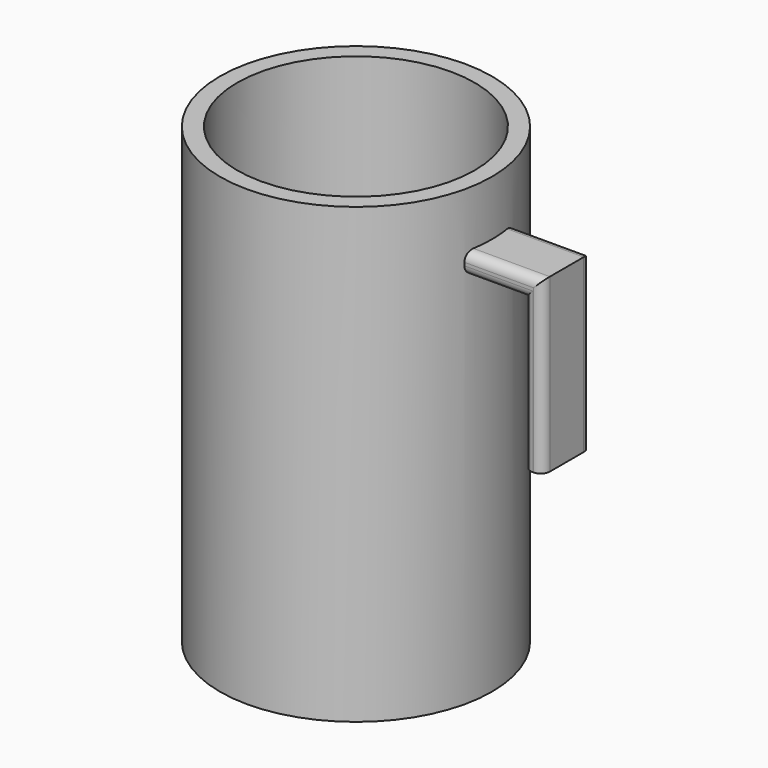
from build123d import *

# Parameters (mm, degrees)
F2_DEPTH = 20
F3_R     = 3


with BuildPart() as f1:
    # F0 (on Front) → F1 (revolve)
    with BuildSketch(Plane.XZ):
        Polygon((45, 75), (39.286416, 75), (39.286416, -65), (0, -65), (0, -75), (45, -75), (45, 0), (45, 49.767725), (45, 56.793757), align=None)
    revolve(axis=Axis((0, 0, 1.826262), (0, 0, 1)))


with BuildPart() as f2:
    # F0 (on Front) → F2 (new body)
    with BuildSketch(Plane.XZ):
        Polygon((74.749172, 56.793757), (45, 56.793757), (45, 49.767725), (68.503812, 49.767725), (68.503812, 0), (74.749172, 0), align=None)
    extrude(amount=F2_DEPTH)

    # F3
    f3_edges = [f2.edges().sort_by_distance(p)[0] for p in [
        (59.874586, -20, 56.793757),
        (59.874586, 0, 56.793757),
        (56.751906, -20, 49.767725),
        (68.503812, -20, 24.883863),
        (74.749172, -20, 28.396878),
        (74.749172, 0, 28.396878),
        (68.503812, 0, 24.883863),
        (56.751906, 0, 49.767725),
    ]]
    fillet(f3_edges, radius=F3_R)


with BuildPart() as f2_1:
    # F4: moved
    add(f2.part.moved(Location((0, 10, 0))))


with BuildPart() as f2_2:
    # F5: moved
    add(f2_1.part.moved(Location((-5, 0, 0))))


with BuildPart() as f1_1:
    add(f1.part)

    # F6: cut F2
    add(f2_2.part, mode=Mode.SUBTRACT)


solid = Compound([f2_2.part, f1_1.part])
